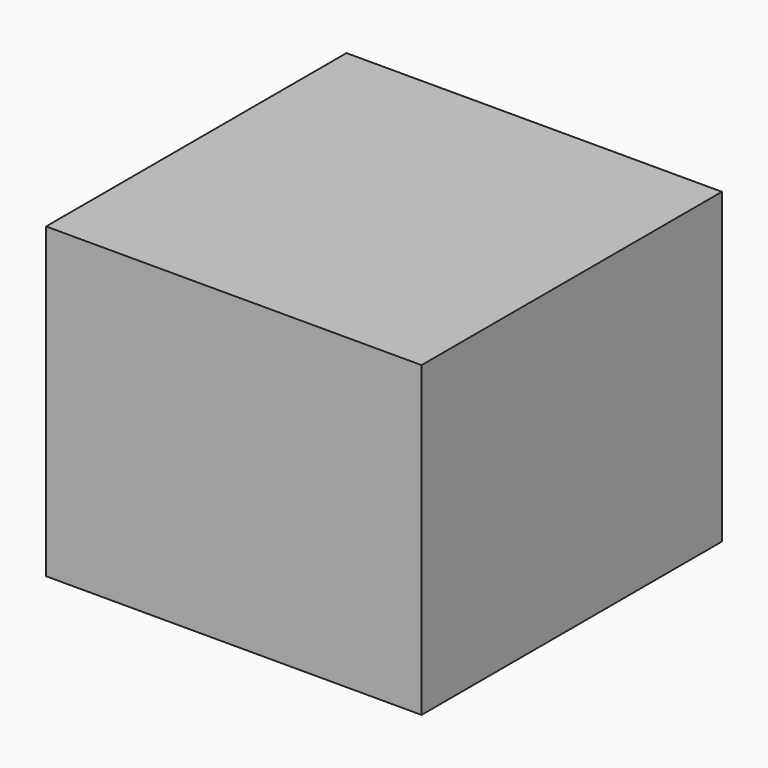
from build123d import *

# Parameters (mm, degrees)
BOX_W     = 609.6
BOX_H     = 609.6
BOX_DEPTH = 500


with BuildPart() as part:
    # Box → Box (new body)
    with BuildSketch(Plane.XY):
        with Locations((304.8, 304.8)):
            Rectangle(BOX_W, BOX_H)
    extrude(amount=BOX_DEPTH)


solid = part.part
